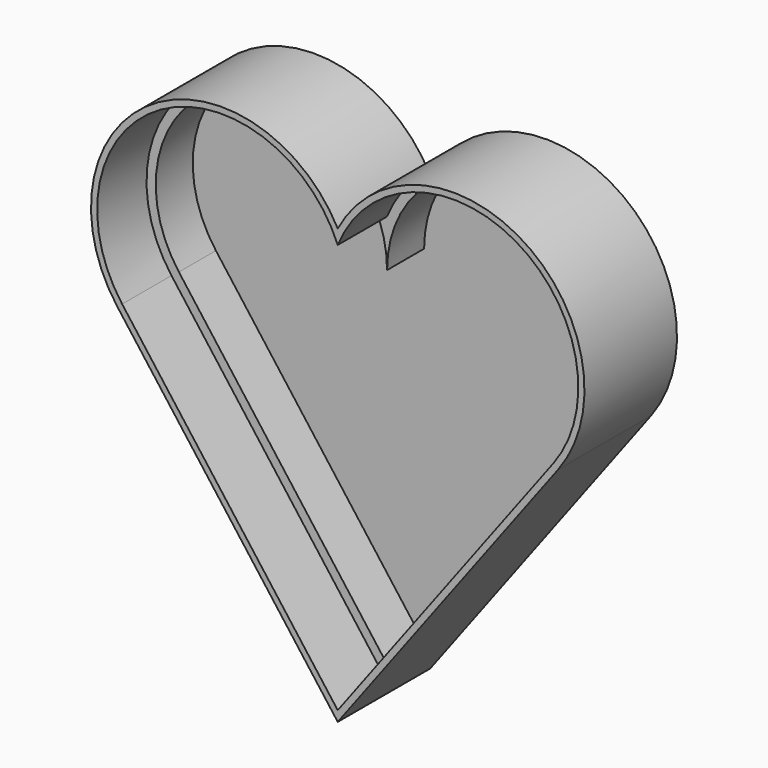
from build123d import *

# Parameters (mm, degrees)
F1_DEPTH = 1
F2_DEPTH = 15
F3_DEPTH = 7


with BuildPart() as f1:
    # F0 (on Front) → F1 (new body)
    with BuildSketch(Plane.XZ):
        with BuildLine():
            ThreePointArc((28.6, -10.2), (24.1268833673, 14.3422452914), (0, 8))
            ThreePointArc((0, 8), (-24.1268833673, 14.3422452914), (-28.6, -10.2))
            Line((-28.6, -10.2), (0, -48.3333333333))
            Line((0, -48.3333333333), (28.6, -10.2))
        make_face()
        with BuildLine():
            ThreePointArc((0, 6.1188234163), (22.9848282263, 14.0954786438), (27.96, -9.72))
            Line((27.96, -9.72), (0, -47))
            Line((0, -47), (-27.96, -9.72))
            ThreePointArc((-27.96, -9.72), (-22.9848282263, 14.0954786438), (0, 6.1188234163))
        make_face(mode=Mode.SUBTRACT)
        with BuildLine():
            Line((0, -47), (27.96, -9.72))
            ThreePointArc((27.96, -9.72), (22.9848282263, 14.0954786438), (0, 6.1188234163))
            ThreePointArc((0, 6.1188234163), (-22.9848282263, 14.0954786438), (-27.96, -9.72))
            Line((-27.96, -9.72), (0, -47))
        make_face()
        with BuildLine():
            ThreePointArc((-27, -9), (-19.7434164903, 14.2302494708), (0, 0))
            ThreePointArc((0, 0), (19.7434164903, 14.2302494708), (27, -9))
            Line((27, -9), (0, -45))
            Line((0, -45), (-27, -9))
        make_face(mode=Mode.SUBTRACT)
        with BuildLine():
            ThreePointArc((27, -9), (19.7434164903, 14.2302494708), (0, 0))
            ThreePointArc((0, 0), (-19.7434164903, 14.2302494708), (-27, -9))
            Line((-27, -9), (0, -45))
            Line((0, -45), (27, -9))
        make_face()
    extrude(amount=F1_DEPTH)

    # F0 (on Front) → F2 (join)
    with BuildSketch(Plane.XZ):
        with BuildLine():
            ThreePointArc((28.6, -10.2), (24.1268833673, 14.3422452914), (0, 8))
            ThreePointArc((0, 8), (-24.1268833673, 14.3422452914), (-28.6, -10.2))
            Line((-28.6, -10.2), (0, -48.3333333333))
            Line((0, -48.3333333333), (28.6, -10.2))
        make_face()
        with BuildLine():
            ThreePointArc((0, 6.1188234163), (22.9848282263, 14.0954786438), (27.96, -9.72))
            Line((27.96, -9.72), (0, -47))
            Line((0, -47), (-27.96, -9.72))
            ThreePointArc((-27.96, -9.72), (-22.9848282263, 14.0954786438), (0, 6.1188234163))
        make_face(mode=Mode.SUBTRACT)
    extrude(amount=F2_DEPTH)

    # F0 (on Front) → F3 (join)
    with BuildSketch(Plane.XZ):
        with BuildLine():
            Line((0, -47), (27.96, -9.72))
            ThreePointArc((27.96, -9.72), (22.9848282263, 14.0954786438), (0, 6.1188234163))
            ThreePointArc((0, 6.1188234163), (-22.9848282263, 14.0954786438), (-27.96, -9.72))
            Line((-27.96, -9.72), (0, -47))
        make_face()
        with BuildLine():
            ThreePointArc((-27, -9), (-19.7434164903, 14.2302494708), (0, 0))
            ThreePointArc((0, 0), (19.7434164903, 14.2302494708), (27, -9))
            Line((27, -9), (0, -45))
            Line((0, -45), (-27, -9))
        make_face(mode=Mode.SUBTRACT)
    extrude(amount=F3_DEPTH)


solid = f1.part
